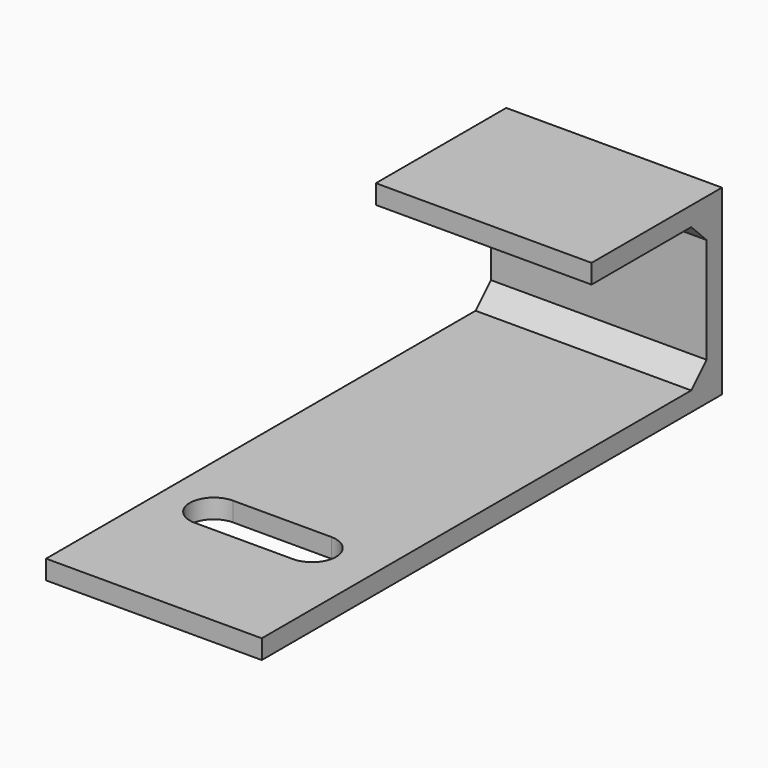
from build123d import *

# Parameters (mm, degrees)
F6_DEPTH = 22.5
F7_DEPTH = 2
F8_SIZE  = 2


with BuildPart() as f6:
    # F5 (on Right) → F6 (new body)
    with BuildSketch(Plane.YZ):
        Polygon((45.25, 2), (45.25, 0), (57.75, 0), (62.75, 0), (105.25, 0), (105.25, 2), (105.25, 17), (105.25, 19), (88.25, 19), (88.25, 17), (103.25, 17), (103.25, 2), align=None)
    extrude(amount=F6_DEPTH)

    # F4 (on Top) → F7 (cut, through all)
    with BuildSketch(Plane.XY):
        with BuildLine():
            ThreePointArc((18.25, 60.25), (17.517766953, 62.017766953), (15.75, 62.75))
            ThreePointArc((15.75, 62.75), (13.25, 60.25), (15.75, 57.75))
            ThreePointArc((15.75, 57.75), (17.517766953, 58.482233047), (18.25, 60.25))
        make_face()
        with BuildLine():
            ThreePointArc((5.5, 62.75), (7.267766953, 62.017766953), (8, 60.25))
            ThreePointArc((8, 60.25), (7.267766953, 58.482233047), (5.5, 57.75))
            Line((5.5, 57.75), (15.75, 57.75))
            ThreePointArc((15.75, 57.75), (13.25, 60.25), (15.75, 62.75))
            Line((15.75, 62.75), (5.5, 62.75))
        make_face()
        with BuildLine():
            ThreePointArc((5.5, 57.75), (7.267766953, 58.482233047), (8, 60.25))
            ThreePointArc((8, 60.25), (7.267766953, 62.017766953), (5.5, 62.75))
            ThreePointArc((5.5, 62.75), (3, 60.25), (5.5, 57.75))
        make_face()
    extrude(amount=F7_DEPTH, mode=Mode.SUBTRACT)

    # F8
    f8_edges = [f6.edges().sort_by_distance(p)[0] for p in [
        (11.25, 103.25, 2),
        (11.25, 103.25, 17),
    ]]
    chamfer(f8_edges, length=F8_SIZE)


solid = f6.part
